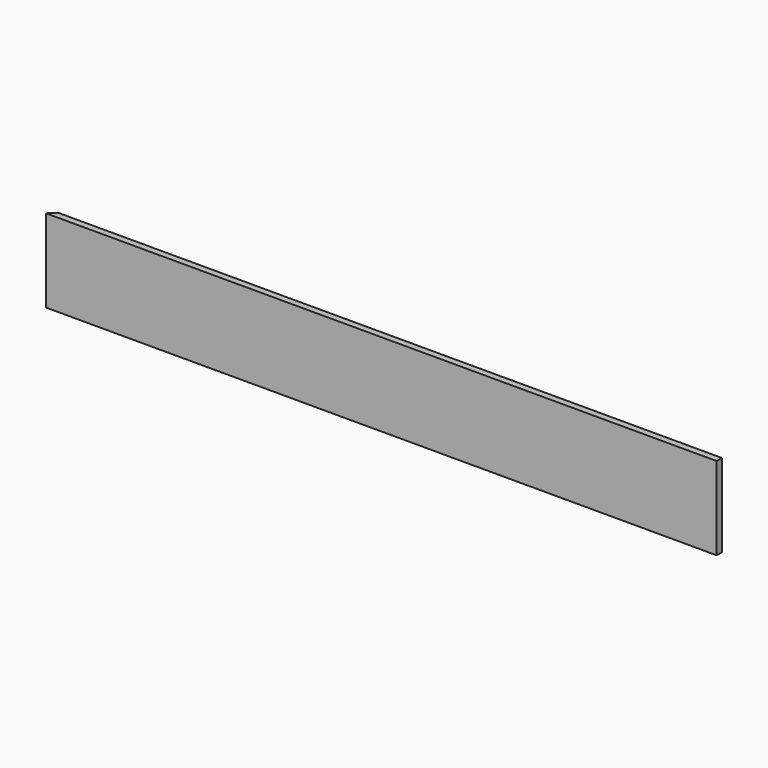
from build123d import *

# Parameters (mm, degrees)
F0_W     = 400
F0_H     = 4
F1_DEPTH = 50


with BuildPart() as f1:
    # F0 (on Top) → F1 (new body)
    with BuildSketch(Plane.XY):
        with Locations((200, -2)):
            Rectangle(F0_W, F0_H)
        Polygon((0, -4), (0, 0), (-4, -4), align=None)
    extrude(amount=F1_DEPTH)


solid = f1.part
